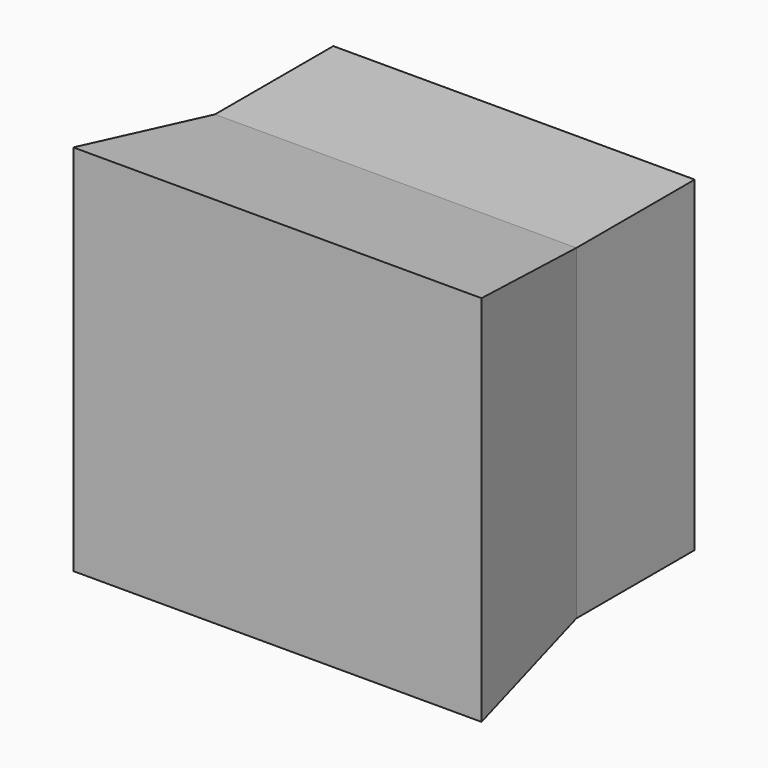
from build123d import *

# Parameters (mm, degrees)
F0_W          = 61.097830534
F0_H          = 55.1462173462
F1_DEPTH      = 25
F1_TAPER      = -9
F1_DEPTH_BACK = 25


with BuildPart() as f1:
    # F0 (on Front) → F1 (new body, two sides)
    with BuildSketch(Plane.XZ) as f1_sk:
        with Locations((-30.548915267, 72.3552629352)):
            Rectangle(F0_W, F0_H)
    extrude(amount=F1_DEPTH, taper=F1_TAPER)
    extrude(f1_sk.sketch, amount=-F1_DEPTH_BACK)


solid = f1.part
